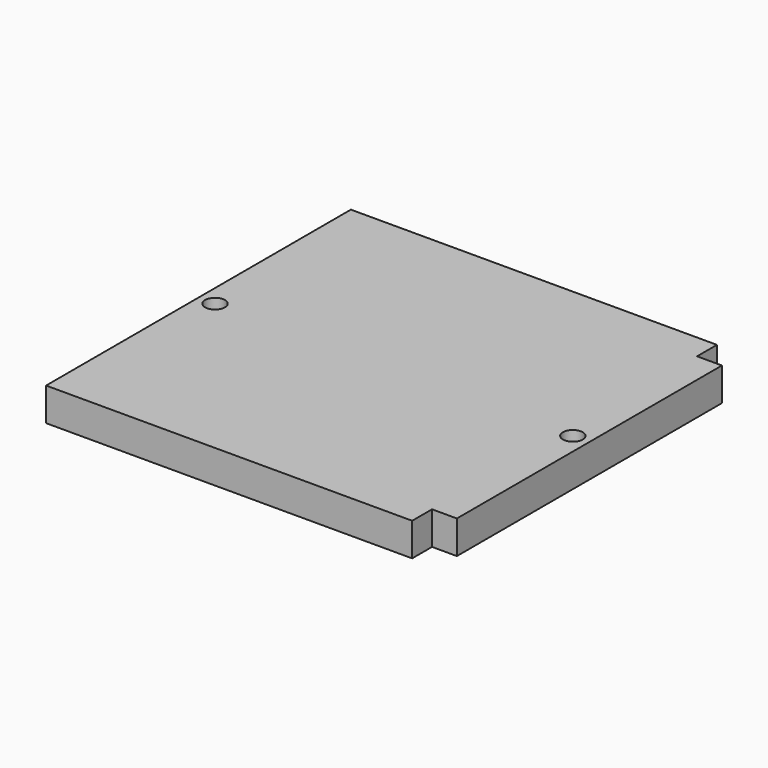
from build123d import *

# Parameters (mm, degrees)
F0_W     = 118
F0_H     = 115
F0_R     = 3
F2_DEPTH = 10
F1_W     = 47
F1_H     = 96
F3_DEPTH = 7
F4_W     = 7.5
F4_H     = 7.5
F5_DEPTH = 25


with BuildPart() as f2:
    # F0 (on Top) → F2 (new body)
    with BuildSketch(Plane.XY):
        Rectangle(F0_W, F0_H)
        with Locations((-54, 0)):
            Circle(F0_R, mode=Mode.SUBTRACT)
        with Locations((54, 0)):
            Circle(F0_R, mode=Mode.SUBTRACT)
    extrude(amount=F2_DEPTH)

    # F1 (on Top) → F3 (cut)
    with BuildSketch(Plane.XY):
        with Locations((-25.5, 0)):
            Rectangle(F1_W, F1_H)
        with Locations((25.5, 0)):
            Rectangle(F1_W, F1_H)
    extrude(amount=F3_DEPTH, mode=Mode.SUBTRACT)

    # F4 (on Top) → F5 (cut)
    with BuildSketch(Plane.XY):
        with Locations((55.25, -53.75)):
            Rectangle(F4_W, F4_H)
        with Locations((55.25, 53.75)):
            Rectangle(F4_W, F4_H)
    extrude(amount=F5_DEPTH, mode=Mode.SUBTRACT)


solid = f2.part
